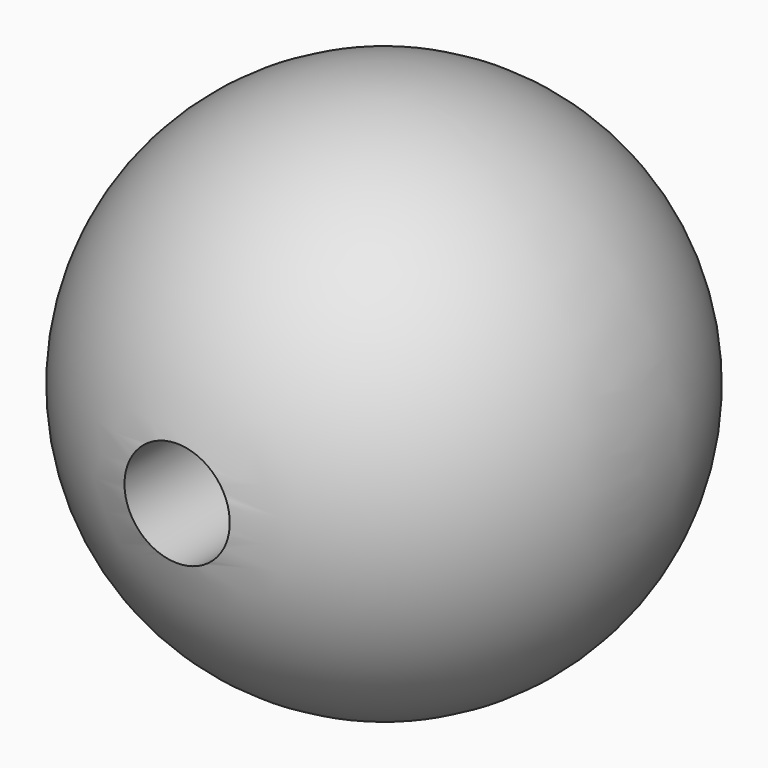
from build123d import *

# Parameters (mm, degrees)
F4_D     = 9.525
F4_DEPTH = 19.05
F4_TIP   = 2.8615986981


with BuildPart() as f1:
    # F0 (on Front) → F1 (revolve)
    with BuildSketch(Plane.XZ):
        with BuildLine():
            Line((0, 23.876), (0, -23.876))
            ThreePointArc((0, -23.876), (23.876, 0), (0, 23.876))
        make_face()
    revolve(axis=Axis((0, 0, 0), (0, 0, -1)))

    # F4
    with Locations(Plane.XZ.offset(25.4)):
        with Locations((0, 0)):
            Hole(F4_D / 2, depth=F4_DEPTH)
            with Locations((0, 0, -(F4_DEPTH + F4_TIP / 2))):  # 118° drill point
                Cone(0, F4_D / 2, F4_TIP, mode=Mode.SUBTRACT)


solid = f1.part
